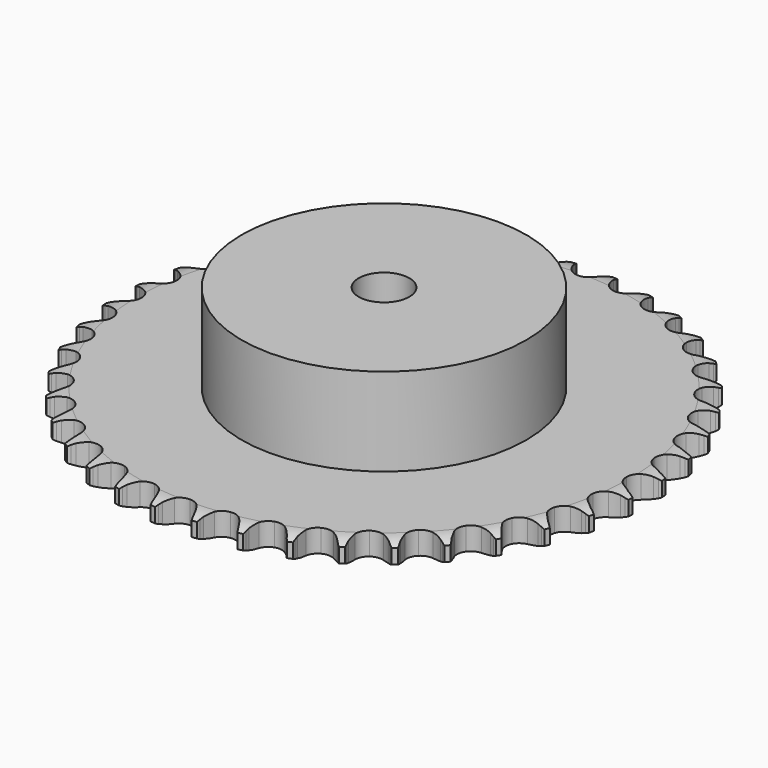
from build123d import *

# Parameters (mm, degrees)
PAD_DEPTH         = 7.2
SKETCH001_R       = 45
PAD001_DEPTH      = 35
SKETCH002_R       = 8
POCKET_DEPTH      = 0.001
POCKET_DEPTH_BACK = 35.001


with BuildPart() as part:
    # Sprocket → Pad (new body)
    with BuildSketch(Plane.XY):
        with BuildLine():
            ThreePointArc((-6.649012, 84.48371), (-5.927726, 83.470306), (-5.400458, 82.343705))
            Line((-5.400458, 82.343705), (-4.98558, 81.197617))
            ThreePointArc((-4.98558, 81.197617), (-4.32953, 79.727559), (-3.46814, 78.367604))
            ThreePointArc((-3.46814, 78.367604), (-1.941893, 77.081246), (0, 76.619517))
            ThreePointArc((0, 76.619517), (1.941893, 77.081246), (3.46814, 78.367604))
            ThreePointArc((3.46814, 78.367604), (4.32953, 79.727559), (4.98558, 81.197617))
            Line((4.98558, 81.197617), (5.400458, 82.343705))
            ThreePointArc((5.400458, 82.343705), (5.927726, 83.470306), (6.649012, 84.48371))
            ThreePointArc((6.649012, 84.48371), (7.202887, 83.369949), (7.547424, 82.174735))
            Line((7.547424, 82.174735), (7.777907, 80.977856))
            ThreePointArc((7.777907, 80.977856), (8.195912, 79.423268), (8.833953, 77.945305))
            ThreePointArc((8.833953, 77.945305), (10.140178, 76.436027), (11.985933, 75.676204))
            ThreePointArc((11.985933, 75.676204), (13.976149, 75.828469), (15.684836, 76.860232))
            Line((15.684836, 76.860232), (17.626305, 79.418023))
            ThreePointArc((17.626305, 79.418023), (17.906205, 79.959636), (18.215363, 80.4851))
            ThreePointArc((18.215363, 80.4851), (18.912379, 81.515347), (19.783316, 82.403441))
            ThreePointArc((19.783316, 82.403441), (20.15614, 81.216746), (20.309464, 79.98235))
            Line((20.309464, 79.98235), (20.349875, 78.764151))
            ThreePointArc((20.349875, 78.764151), (20.519543, 77.163313), (20.918524, 75.603734))
            ThreePointArc((20.918524, 75.603734), (21.972565, 73.9087), (23.676733, 72.869491))
            ThreePointArc((23.676733, 72.869491), (25.666265, 72.708543), (27.515318, 73.460306))
            Line((27.515318, 73.460306), (29.833012, 75.682894))
            ThreePointArc((29.833012, 75.682894), (30.194193, 76.174053), (30.581745, 76.644684))
            ThreePointArc((30.581745, 76.644684), (31.431346, 77.55321), (32.430489, 78.294125))
            ThreePointArc((32.430489, 78.294125), (32.613083, 77.063719), (32.571417, 75.820535))
            Line((32.571417, 75.820535), (32.420763, 74.611012))
            ThreePointArc((32.420763, 74.611012), (32.337915, 73.003341), (32.488012, 71.400549))
            ThreePointArc((32.488012, 71.400549), (33.263914, 69.561494), (34.784533, 68.26849))
            ThreePointArc((34.784533, 68.26849), (36.724393, 67.798292), (38.668283, 68.251544))
            Line((38.668283, 68.251544), (41.305131, 70.084201))
            ThreePointArc((41.305131, 70.084201), (41.7387, 70.512812), (42.195103, 70.917022))
            ThreePointArc((42.195103, 70.917022), (43.176369, 71.681456), (44.279115, 72.256949))
            ThreePointArc((44.279115, 72.256949), (44.266984, 71.013126), (44.031353, 69.791766))
            Line((44.031353, 69.791766), (43.693343, 68.620702))
            ThreePointArc((43.693343, 68.620702), (43.36002, 67.045784), (43.257538, 65.439245))
            ThreePointArc((43.257538, 65.439245), (43.736195, 63.501454), (45.035822, 61.986492))
            ThreePointArc((45.035822, 61.986492), (46.878245, 61.218622), (48.869106, 61.362202))
            Line((48.869106, 61.362202), (51.76018, 62.759802))
            ThreePointArc((51.76018, 62.759802), (52.255461, 63.115311), (52.769478, 63.443147))
            ThreePointArc((52.769478, 63.443147), (53.858246, 64.044666), (55.037443, 64.440566))
            ThreePointArc((55.037443, 64.440566), (54.830884, 63.213955), (54.407092, 62.044493))
            Line((54.407092, 62.044493), (53.890048, 60.940723))
            ThreePointArc((53.890048, 60.940723), (53.314458, 59.437338), (52.961919, 57.866609))
            ThreePointArc((52.961919, 57.866609), (53.131546, 55.877798), (54.17818, 54.17818))
            ThreePointArc((54.17818, 54.17818), (55.877798, 53.131546), (57.866609, 52.961919))
            Line((57.866609, 52.961919), (60.940723, 53.890048))
            ThreePointArc((60.940723, 53.890048), (61.48552, 54.163701), (62.044493, 54.407092))
            ThreePointArc((62.044493, 54.407092), (63.213955, 54.830884), (64.440566, 55.037443))
            ThreePointArc((64.440566, 55.037443), (64.044666, 53.858246), (63.443147, 52.769478))
            Line((63.443147, 52.769478), (62.759802, 51.76018))
            ThreePointArc((62.759802, 51.76018), (61.956116, 50.365347), (61.362202, 48.869106))
            ThreePointArc((61.362202, 48.869106), (61.218622, 46.878245), (61.986492, 45.035822))
            ThreePointArc((61.986492, 45.035822), (63.501454, 43.736195), (65.439245, 43.257538))
            Line((65.439245, 43.257538), (68.620702, 43.693343))
            ThreePointArc((68.620702, 43.693343), (69.2016, 43.878402), (69.791766, 44.031353))
            ThreePointArc((69.791766, 44.031353), (71.013126, 44.266984), (72.256949, 44.279115))
            ThreePointArc((72.256949, 44.279115), (71.681456, 43.176369), (70.917022, 42.195103))
            Line((70.917022, 42.195103), (70.084201, 41.305131))
            ThreePointArc((70.084201, 41.305131), (69.07221, 40.053194), (68.251544, 38.668283))
            ThreePointArc((68.251544, 38.668283), (67.798292, 36.724393), (68.26849, 34.784533))
            ThreePointArc((68.26849, 34.784533), (69.561494, 33.263914), (71.400549, 32.488012))
            Line((71.400549, 32.488012), (74.611012, 32.420763))
            ThreePointArc((74.611012, 32.420763), (75.213708, 32.512671), (75.820535, 32.571417))
            ThreePointArc((75.820535, 32.571417), (77.063719, 32.613083), (78.294125, 32.430489))
            ThreePointArc((78.294125, 32.430489), (77.55321, 31.431346), (76.644684, 30.581745))
            Line((76.644684, 30.581745), (75.682894, 29.833012))
            ThreePointArc((75.682894, 29.833012), (74.487516, 28.754798), (73.460306, 27.515318))
            ThreePointArc((73.460306, 27.515318), (72.708543, 25.666265), (72.869491, 23.676733))
            ThreePointArc((72.869491, 23.676733), (73.9087, 21.972565), (75.603734, 20.918524))
            Line((75.603734, 20.918524), (78.764151, 20.349875))
            ThreePointArc((78.764151, 20.349875), (79.373805, 20.346369), (79.98235, 20.309464))
            ThreePointArc((79.98235, 20.309464), (81.216746, 20.15614), (82.403441, 19.783316))
            ThreePointArc((82.403441, 19.783316), (81.515347, 18.912379), (80.4851, 18.215363))
            Line((80.4851, 18.215363), (79.418023, 17.626305))
            ThreePointArc((79.418023, 17.626305), (78.068693, 16.748364), (76.860232, 15.684836))
            ThreePointArc((76.860232, 15.684836), (75.828469, 13.976149), (75.676204, 11.985933))
            ThreePointArc((75.676204, 11.985933), (76.436027, 10.140178), (77.945305, 8.833953))
            Line((77.945305, 8.833953), (80.977856, 7.777907))
            ThreePointArc((80.977856, 7.777907), (81.579455, 7.679073), (82.174735, 7.547424))
            ThreePointArc((82.174735, 7.547424), (83.369949, 7.202887), (84.48371, 6.649012))
            ThreePointArc((84.48371, 6.649012), (83.470306, 5.927726), (82.343705, 5.400458))
            Line((82.343705, 5.400458), (81.197617, 4.98558))
            ThreePointArc((81.197617, 4.98558), (79.727559, 4.32953), (78.367604, 3.46814))
            ThreePointArc((78.367604, 3.46814), (77.081246, 1.941893), (76.619517, 0))
            ThreePointArc((76.619517, 0), (77.081246, -1.941893), (78.367604, -3.46814))
            Line((78.367604, -3.46814), (81.197617, -4.98558))
            ThreePointArc((81.197617, -4.98558), (81.776348, -5.177307), (82.343705, -5.400458))
            ThreePointArc((82.343705, -5.400458), (83.470306, -5.927726), (84.48371, -6.649012))
            ThreePointArc((84.48371, -6.649012), (83.369949, -7.202887), (82.174735, -7.547424))
            Line((82.174735, -7.547424), (80.977856, -7.777907))
            ThreePointArc((80.977856, -7.777907), (79.423268, -8.195912), (77.945305, -8.833953))
            ThreePointArc((77.945305, -8.833953), (76.436027, -10.140178), (75.676204, -11.985933))
            ThreePointArc((75.676204, -11.985933), (75.828469, -13.976149), (76.860232, -15.684836))
            Line((76.860232, -15.684836), (79.418023, -17.626305))
            ThreePointArc((79.418023, -17.626305), (79.959636, -17.906205), (80.4851, -18.215363))
            ThreePointArc((80.4851, -18.215363), (81.515347, -18.912379), (82.403441, -19.783316))
            ThreePointArc((82.403441, -19.783316), (81.216746, -20.15614), (79.98235, -20.309464))
            Line((79.98235, -20.309464), (78.764151, -20.349875))
            ThreePointArc((78.764151, -20.349875), (77.163313, -20.519543), (75.603734, -20.918524))
            ThreePointArc((75.603734, -20.918524), (73.9087, -21.972565), (72.869491, -23.676733))
            ThreePointArc((72.869491, -23.676733), (72.708543, -25.666265), (73.460306, -27.515318))
            Line((73.460306, -27.515318), (75.682894, -29.833012))
            ThreePointArc((75.682894, -29.833012), (76.174053, -30.194193), (76.644684, -30.581745))
            ThreePointArc((76.644684, -30.581745), (77.55321, -31.431346), (78.294125, -32.430489))
            ThreePointArc((78.294125, -32.430489), (77.063719, -32.613083), (75.820535, -32.571417))
            Line((75.820535, -32.571417), (74.611012, -32.420763))
            ThreePointArc((74.611012, -32.420763), (73.003341, -32.337915), (71.400549, -32.488012))
            ThreePointArc((71.400549, -32.488012), (69.561494, -33.263914), (68.26849, -34.784533))
            ThreePointArc((68.26849, -34.784533), (67.798292, -36.724393), (68.251544, -38.668283))
            Line((68.251544, -38.668283), (70.084201, -41.305131))
            ThreePointArc((70.084201, -41.305131), (70.512812, -41.7387), (70.917022, -42.195103))
            ThreePointArc((70.917022, -42.195103), (71.681456, -43.176369), (72.256949, -44.279115))
            ThreePointArc((72.256949, -44.279115), (71.013126, -44.266984), (69.791766, -44.031353))
            Line((69.791766, -44.031353), (68.620702, -43.693343))
            ThreePointArc((68.620702, -43.693343), (67.045784, -43.36002), (65.439245, -43.257538))
            ThreePointArc((65.439245, -43.257538), (63.501454, -43.736195), (61.986492, -45.035822))
            ThreePointArc((61.986492, -45.035822), (61.218622, -46.878245), (61.362202, -48.869106))
            Line((61.362202, -48.869106), (62.759802, -51.76018))
            ThreePointArc((62.759802, -51.76018), (63.115311, -52.255461), (63.443147, -52.769478))
            ThreePointArc((63.443147, -52.769478), (64.044666, -53.858246), (64.440566, -55.037443))
            ThreePointArc((64.440566, -55.037443), (63.213955, -54.830884), (62.044493, -54.407092))
            Line((62.044493, -54.407092), (60.940723, -53.890048))
            ThreePointArc((60.940723, -53.890048), (59.437338, -53.314458), (57.866609, -52.961919))
            ThreePointArc((57.866609, -52.961919), (55.877798, -53.131546), (54.17818, -54.17818))
            ThreePointArc((54.17818, -54.17818), (53.131546, -55.877798), (52.961919, -57.866609))
            Line((52.961919, -57.866609), (53.890048, -60.940723))
            ThreePointArc((53.890048, -60.940723), (54.163701, -61.48552), (54.407092, -62.044493))
            ThreePointArc((54.407092, -62.044493), (54.830884, -63.213955), (55.037443, -64.440566))
            ThreePointArc((55.037443, -64.440566), (53.858246, -64.044666), (52.769478, -63.443147))
            Line((52.769478, -63.443147), (51.76018, -62.759802))
            ThreePointArc((51.76018, -62.759802), (50.365347, -61.956116), (48.869106, -61.362202))
            ThreePointArc((48.869106, -61.362202), (46.878245, -61.218622), (45.035822, -61.986492))
            ThreePointArc((45.035822, -61.986492), (43.736195, -63.501454), (43.257538, -65.439245))
            Line((43.257538, -65.439245), (43.693343, -68.620702))
            ThreePointArc((43.693343, -68.620702), (43.878402, -69.2016), (44.031353, -69.791766))
            ThreePointArc((44.031353, -69.791766), (44.266984, -71.013126), (44.279115, -72.256949))
            ThreePointArc((44.279115, -72.256949), (43.176369, -71.681456), (42.195103, -70.917022))
            Line((42.195103, -70.917022), (41.305131, -70.084201))
            ThreePointArc((41.305131, -70.084201), (40.053194, -69.07221), (38.668283, -68.251544))
            ThreePointArc((38.668283, -68.251544), (36.724393, -67.798292), (34.784533, -68.26849))
            ThreePointArc((34.784533, -68.26849), (33.263914, -69.561494), (32.488012, -71.400549))
            Line((32.488012, -71.400549), (32.420763, -74.611012))
            ThreePointArc((32.420763, -74.611012), (32.512671, -75.213708), (32.571417, -75.820535))
            ThreePointArc((32.571417, -75.820535), (32.613083, -77.063719), (32.430489, -78.294125))
            ThreePointArc((32.430489, -78.294125), (31.431346, -77.55321), (30.581745, -76.644684))
            Line((30.581745, -76.644684), (29.833012, -75.682894))
            ThreePointArc((29.833012, -75.682894), (28.754798, -74.487516), (27.515318, -73.460306))
            ThreePointArc((27.515318, -73.460306), (25.666265, -72.708543), (23.676733, -72.869491))
            ThreePointArc((23.676733, -72.869491), (21.972565, -73.9087), (20.918524, -75.603734))
            Line((20.918524, -75.603734), (20.349875, -78.764151))
            ThreePointArc((20.349875, -78.764151), (20.346369, -79.373805), (20.309464, -79.98235))
            ThreePointArc((20.309464, -79.98235), (20.15614, -81.216746), (19.783316, -82.403441))
            ThreePointArc((19.783316, -82.403441), (18.912379, -81.515347), (18.215363, -80.4851))
            Line((18.215363, -80.4851), (17.626305, -79.418023))
            ThreePointArc((17.626305, -79.418023), (16.748364, -78.068693), (15.684836, -76.860232))
            ThreePointArc((15.684836, -76.860232), (13.976149, -75.828469), (11.985933, -75.676204))
            ThreePointArc((11.985933, -75.676204), (10.140178, -76.436027), (8.833953, -77.945305))
            Line((8.833953, -77.945305), (7.777907, -80.977856))
            ThreePointArc((7.777907, -80.977856), (7.679073, -81.579455), (7.547424, -82.174735))
            ThreePointArc((7.547424, -82.174735), (7.202887, -83.369949), (6.649012, -84.48371))
            ThreePointArc((6.649012, -84.48371), (5.927726, -83.470306), (5.400458, -82.343705))
            Line((5.400458, -82.343705), (4.98558, -81.197617))
            ThreePointArc((4.98558, -81.197617), (4.32953, -79.727559), (3.46814, -78.367604))
            ThreePointArc((3.46814, -78.367604), (1.941893, -77.081246), (0, -76.619517))
            ThreePointArc((0, -76.619517), (-1.941893, -77.081246), (-3.46814, -78.367604))
            Line((-3.46814, -78.367604), (-4.98558, -81.197617))
            ThreePointArc((-4.98558, -81.197617), (-5.177307, -81.776348), (-5.400458, -82.343705))
            ThreePointArc((-5.400458, -82.343705), (-5.927726, -83.470306), (-6.649012, -84.48371))
            ThreePointArc((-6.649012, -84.48371), (-7.202887, -83.369949), (-7.547424, -82.174735))
            Line((-7.547424, -82.174735), (-7.777907, -80.977856))
            ThreePointArc((-7.777907, -80.977856), (-8.195912, -79.423268), (-8.833953, -77.945305))
            ThreePointArc((-8.833953, -77.945305), (-10.140178, -76.436027), (-11.985933, -75.676204))
            ThreePointArc((-11.985933, -75.676204), (-13.976149, -75.828469), (-15.684836, -76.860232))
            Line((-15.684836, -76.860232), (-17.626305, -79.418023))
            ThreePointArc((-17.626305, -79.418023), (-17.906205, -79.959636), (-18.215363, -80.4851))
            ThreePointArc((-18.215363, -80.4851), (-18.912379, -81.515347), (-19.783316, -82.403441))
            ThreePointArc((-19.783316, -82.403441), (-20.15614, -81.216746), (-20.309464, -79.98235))
            Line((-20.309464, -79.98235), (-20.349875, -78.764151))
            ThreePointArc((-20.349875, -78.764151), (-20.519543, -77.163313), (-20.918524, -75.603734))
            ThreePointArc((-20.918524, -75.603734), (-21.972565, -73.9087), (-23.676733, -72.869491))
            ThreePointArc((-23.676733, -72.869491), (-25.666265, -72.708543), (-27.515318, -73.460306))
            Line((-27.515318, -73.460306), (-29.833012, -75.682894))
            ThreePointArc((-29.833012, -75.682894), (-30.194193, -76.174053), (-30.581745, -76.644684))
            ThreePointArc((-30.581745, -76.644684), (-31.431346, -77.55321), (-32.430489, -78.294125))
            ThreePointArc((-32.430489, -78.294125), (-32.613083, -77.063719), (-32.571417, -75.820535))
            Line((-32.571417, -75.820535), (-32.420763, -74.611012))
            ThreePointArc((-32.420763, -74.611012), (-32.337915, -73.003341), (-32.488012, -71.400549))
            ThreePointArc((-32.488012, -71.400549), (-33.263914, -69.561494), (-34.784533, -68.26849))
            ThreePointArc((-34.784533, -68.26849), (-36.724393, -67.798292), (-38.668283, -68.251544))
            Line((-38.668283, -68.251544), (-41.305131, -70.084201))
            ThreePointArc((-41.305131, -70.084201), (-41.7387, -70.512812), (-42.195103, -70.917022))
            ThreePointArc((-42.195103, -70.917022), (-43.176369, -71.681456), (-44.279115, -72.256949))
            ThreePointArc((-44.279115, -72.256949), (-44.266984, -71.013126), (-44.031353, -69.791766))
            Line((-44.031353, -69.791766), (-43.693343, -68.620702))
            ThreePointArc((-43.693343, -68.620702), (-43.36002, -67.045784), (-43.257538, -65.439245))
            ThreePointArc((-43.257538, -65.439245), (-43.736195, -63.501454), (-45.035822, -61.986492))
            ThreePointArc((-45.035822, -61.986492), (-46.878245, -61.218622), (-48.869106, -61.362202))
            Line((-48.869106, -61.362202), (-51.76018, -62.759802))
            ThreePointArc((-51.76018, -62.759802), (-52.255461, -63.115311), (-52.769478, -63.443147))
            ThreePointArc((-52.769478, -63.443147), (-53.858246, -64.044666), (-55.037443, -64.440566))
            ThreePointArc((-55.037443, -64.440566), (-54.830884, -63.213955), (-54.407092, -62.044493))
            Line((-54.407092, -62.044493), (-53.890048, -60.940723))
            ThreePointArc((-53.890048, -60.940723), (-53.314458, -59.437338), (-52.961919, -57.866609))
            ThreePointArc((-52.961919, -57.866609), (-53.131546, -55.877798), (-54.17818, -54.17818))
            ThreePointArc((-54.17818, -54.17818), (-55.877798, -53.131546), (-57.866609, -52.961919))
            Line((-57.866609, -52.961919), (-60.940723, -53.890048))
            ThreePointArc((-60.940723, -53.890048), (-61.48552, -54.163701), (-62.044493, -54.407092))
            ThreePointArc((-62.044493, -54.407092), (-63.213955, -54.830884), (-64.440566, -55.037443))
            ThreePointArc((-64.440566, -55.037443), (-64.044666, -53.858246), (-63.443147, -52.769478))
            Line((-63.443147, -52.769478), (-62.759802, -51.76018))
            ThreePointArc((-62.759802, -51.76018), (-61.956116, -50.365347), (-61.362202, -48.869106))
            ThreePointArc((-61.362202, -48.869106), (-61.218622, -46.878245), (-61.986492, -45.035822))
            ThreePointArc((-61.986492, -45.035822), (-63.501454, -43.736195), (-65.439245, -43.257538))
            Line((-65.439245, -43.257538), (-68.620702, -43.693343))
            ThreePointArc((-68.620702, -43.693343), (-69.2016, -43.878402), (-69.791766, -44.031353))
            ThreePointArc((-69.791766, -44.031353), (-71.013126, -44.266984), (-72.256949, -44.279115))
            ThreePointArc((-72.256949, -44.279115), (-71.681456, -43.176369), (-70.917022, -42.195103))
            Line((-70.917022, -42.195103), (-70.084201, -41.305131))
            ThreePointArc((-70.084201, -41.305131), (-69.07221, -40.053194), (-68.251544, -38.668283))
            ThreePointArc((-68.251544, -38.668283), (-67.798292, -36.724393), (-68.26849, -34.784533))
            ThreePointArc((-68.26849, -34.784533), (-69.561494, -33.263914), (-71.400549, -32.488012))
            Line((-71.400549, -32.488012), (-74.611012, -32.420763))
            ThreePointArc((-74.611012, -32.420763), (-75.213708, -32.512671), (-75.820535, -32.571417))
            ThreePointArc((-75.820535, -32.571417), (-77.063719, -32.613083), (-78.294125, -32.430489))
            ThreePointArc((-78.294125, -32.430489), (-77.55321, -31.431346), (-76.644684, -30.581745))
            Line((-76.644684, -30.581745), (-75.682894, -29.833012))
            ThreePointArc((-75.682894, -29.833012), (-74.487516, -28.754798), (-73.460306, -27.515318))
            ThreePointArc((-73.460306, -27.515318), (-72.708543, -25.666265), (-72.869491, -23.676733))
            ThreePointArc((-72.869491, -23.676733), (-73.9087, -21.972565), (-75.603734, -20.918524))
            Line((-75.603734, -20.918524), (-78.764151, -20.349875))
            ThreePointArc((-78.764151, -20.349875), (-79.373805, -20.346369), (-79.98235, -20.309464))
            ThreePointArc((-79.98235, -20.309464), (-81.216746, -20.15614), (-82.403441, -19.783316))
            ThreePointArc((-82.403441, -19.783316), (-81.515347, -18.912379), (-80.4851, -18.215363))
            Line((-80.4851, -18.215363), (-79.418023, -17.626305))
            ThreePointArc((-79.418023, -17.626305), (-78.068693, -16.748364), (-76.860232, -15.684836))
            ThreePointArc((-76.860232, -15.684836), (-75.828469, -13.976149), (-75.676204, -11.985933))
            ThreePointArc((-75.676204, -11.985933), (-76.436027, -10.140178), (-77.945305, -8.833953))
            Line((-77.945305, -8.833953), (-80.977856, -7.777907))
            ThreePointArc((-80.977856, -7.777907), (-81.579455, -7.679073), (-82.174735, -7.547424))
            ThreePointArc((-82.174735, -7.547424), (-83.369949, -7.202887), (-84.48371, -6.649012))
            ThreePointArc((-84.48371, -6.649012), (-83.470306, -5.927726), (-82.343705, -5.400458))
            Line((-82.343705, -5.400458), (-81.197617, -4.98558))
            ThreePointArc((-81.197617, -4.98558), (-79.727559, -4.32953), (-78.367604, -3.46814))
            ThreePointArc((-78.367604, -3.46814), (-77.081246, -1.941893), (-76.619517, 0))
            ThreePointArc((-76.619517, 0), (-77.081246, 1.941893), (-78.367604, 3.46814))
            Line((-78.367604, 3.46814), (-81.197617, 4.98558))
            ThreePointArc((-81.197617, 4.98558), (-81.776348, 5.177307), (-82.343705, 5.400458))
            ThreePointArc((-82.343705, 5.400458), (-83.470306, 5.927726), (-84.48371, 6.649012))
            ThreePointArc((-84.48371, 6.649012), (-83.369949, 7.202887), (-82.174735, 7.547424))
            Line((-82.174735, 7.547424), (-80.977856, 7.777907))
            ThreePointArc((-80.977856, 7.777907), (-79.423268, 8.195912), (-77.945305, 8.833953))
            ThreePointArc((-77.945305, 8.833953), (-76.436027, 10.140178), (-75.676204, 11.985933))
            ThreePointArc((-75.676204, 11.985933), (-75.828469, 13.976149), (-76.860232, 15.684836))
            Line((-76.860232, 15.684836), (-79.418023, 17.626305))
            ThreePointArc((-79.418023, 17.626305), (-79.959636, 17.906205), (-80.4851, 18.215363))
            ThreePointArc((-80.4851, 18.215363), (-81.515347, 18.912379), (-82.403441, 19.783316))
            ThreePointArc((-82.403441, 19.783316), (-81.216746, 20.15614), (-79.98235, 20.309464))
            Line((-79.98235, 20.309464), (-78.764151, 20.349875))
            ThreePointArc((-78.764151, 20.349875), (-77.163313, 20.519543), (-75.603734, 20.918524))
            ThreePointArc((-75.603734, 20.918524), (-73.9087, 21.972565), (-72.869491, 23.676733))
            ThreePointArc((-72.869491, 23.676733), (-72.708543, 25.666265), (-73.460306, 27.515318))
            Line((-73.460306, 27.515318), (-75.682894, 29.833012))
            ThreePointArc((-75.682894, 29.833012), (-76.174053, 30.194193), (-76.644684, 30.581745))
            ThreePointArc((-76.644684, 30.581745), (-77.55321, 31.431346), (-78.294125, 32.430489))
            ThreePointArc((-78.294125, 32.430489), (-77.063719, 32.613083), (-75.820535, 32.571417))
            Line((-75.820535, 32.571417), (-74.611012, 32.420763))
            ThreePointArc((-74.611012, 32.420763), (-73.003341, 32.337915), (-71.400549, 32.488012))
            ThreePointArc((-71.400549, 32.488012), (-69.561494, 33.263914), (-68.26849, 34.784533))
            ThreePointArc((-68.26849, 34.784533), (-67.798292, 36.724393), (-68.251544, 38.668283))
            Line((-68.251544, 38.668283), (-70.084201, 41.305131))
            ThreePointArc((-70.084201, 41.305131), (-70.512812, 41.7387), (-70.917022, 42.195103))
            ThreePointArc((-70.917022, 42.195103), (-71.681456, 43.176369), (-72.256949, 44.279115))
            ThreePointArc((-72.256949, 44.279115), (-71.013126, 44.266984), (-69.791766, 44.031353))
            Line((-69.791766, 44.031353), (-68.620702, 43.693343))
            ThreePointArc((-68.620702, 43.693343), (-67.045784, 43.36002), (-65.439245, 43.257538))
            ThreePointArc((-65.439245, 43.257538), (-63.501454, 43.736195), (-61.986492, 45.035822))
            ThreePointArc((-61.986492, 45.035822), (-61.218622, 46.878245), (-61.362202, 48.869106))
            Line((-61.362202, 48.869106), (-62.759802, 51.76018))
            ThreePointArc((-62.759802, 51.76018), (-63.115311, 52.255461), (-63.443147, 52.769478))
            ThreePointArc((-63.443147, 52.769478), (-64.044666, 53.858246), (-64.440566, 55.037443))
            ThreePointArc((-64.440566, 55.037443), (-63.213955, 54.830884), (-62.044493, 54.407092))
            Line((-62.044493, 54.407092), (-60.940723, 53.890048))
            ThreePointArc((-60.940723, 53.890048), (-59.437338, 53.314458), (-57.866609, 52.961919))
            ThreePointArc((-57.866609, 52.961919), (-55.877798, 53.131546), (-54.17818, 54.17818))
            ThreePointArc((-54.17818, 54.17818), (-53.131546, 55.877798), (-52.961919, 57.866609))
            Line((-52.961919, 57.866609), (-53.890048, 60.940723))
            ThreePointArc((-53.890048, 60.940723), (-54.163701, 61.48552), (-54.407092, 62.044493))
            ThreePointArc((-54.407092, 62.044493), (-54.830884, 63.213955), (-55.037443, 64.440566))
            ThreePointArc((-55.037443, 64.440566), (-53.858246, 64.044666), (-52.769478, 63.443147))
            Line((-52.769478, 63.443147), (-51.76018, 62.759802))
            ThreePointArc((-51.76018, 62.759802), (-50.365347, 61.956116), (-48.869106, 61.362202))
            ThreePointArc((-48.869106, 61.362202), (-46.878245, 61.218622), (-45.035822, 61.986492))
            ThreePointArc((-45.035822, 61.986492), (-43.736195, 63.501454), (-43.257538, 65.439245))
            Line((-43.257538, 65.439245), (-43.693343, 68.620702))
            ThreePointArc((-43.693343, 68.620702), (-43.878402, 69.2016), (-44.031353, 69.791766))
            ThreePointArc((-44.031353, 69.791766), (-44.266984, 71.013126), (-44.279115, 72.256949))
            ThreePointArc((-44.279115, 72.256949), (-43.176369, 71.681456), (-42.195103, 70.917022))
            Line((-42.195103, 70.917022), (-41.305131, 70.084201))
            ThreePointArc((-41.305131, 70.084201), (-40.053194, 69.07221), (-38.668283, 68.251544))
            ThreePointArc((-38.668283, 68.251544), (-36.724393, 67.798292), (-34.784533, 68.26849))
            ThreePointArc((-34.784533, 68.26849), (-33.263914, 69.561494), (-32.488012, 71.400549))
            Line((-32.488012, 71.400549), (-32.420763, 74.611012))
            ThreePointArc((-32.420763, 74.611012), (-32.512671, 75.213708), (-32.571417, 75.820535))
            ThreePointArc((-32.571417, 75.820535), (-32.613083, 77.063719), (-32.430489, 78.294125))
            ThreePointArc((-32.430489, 78.294125), (-31.431346, 77.55321), (-30.581745, 76.644684))
            Line((-30.581745, 76.644684), (-29.833012, 75.682894))
            ThreePointArc((-29.833012, 75.682894), (-28.754798, 74.487516), (-27.515318, 73.460306))
            ThreePointArc((-27.515318, 73.460306), (-25.666265, 72.708543), (-23.676733, 72.869491))
            ThreePointArc((-23.676733, 72.869491), (-21.972565, 73.9087), (-20.918524, 75.603734))
            Line((-20.918524, 75.603734), (-20.349875, 78.764151))
            ThreePointArc((-20.349875, 78.764151), (-20.346369, 79.373805), (-20.309464, 79.98235))
            ThreePointArc((-20.309464, 79.98235), (-20.15614, 81.216746), (-19.783316, 82.403441))
            ThreePointArc((-19.783316, 82.403441), (-18.912379, 81.515347), (-18.215363, 80.4851))
            Line((-18.215363, 80.4851), (-17.626305, 79.418023))
            ThreePointArc((-17.626305, 79.418023), (-16.748364, 78.068693), (-15.684836, 76.860232))
            ThreePointArc((-15.684836, 76.860232), (-13.976149, 75.828469), (-11.985933, 75.676204))
            ThreePointArc((-11.985933, 75.676204), (-10.140178, 76.436027), (-8.833953, 77.945305))
            Line((-8.833953, 77.945305), (-7.777907, 80.977856))
            ThreePointArc((-7.777907, 80.977856), (-7.679073, 81.579455), (-7.547424, 82.174735))
            ThreePointArc((-7.547424, 82.174735), (-7.202887, 83.369949), (-6.649012, 84.48371))
        make_face()
    extrude(amount=PAD_DEPTH)

    # Sketch → Groove (revolve, cut)
    with BuildSketch(Plane.XZ):
        with BuildLine():
            Line((77.733431, 0), (83.4, 0))
            Line((89.066569, 0), (83.4, 0))
            Line((89.066569, 7.2), (89.066569, 0))
            Line((83.4, 7.2), (89.066569, 7.2))
            Line((77.733431, 7.2), (83.4, 7.2))
            ThreePointArc((83.4, 5.9), (80.64032, 6.870833), (77.733431, 7.2))
            Line((83.4, 1.3), (83.4, 5.9))
            ThreePointArc((77.733431, 0), (80.64032, 0.329167), (83.4, 1.3))
        make_face()
    revolve(axis=Axis((0, 0, 0), (0, 0, 1)), mode=Mode.SUBTRACT)

    # Sketch001 → Pad001 (join)
    with BuildSketch(Plane.XY):
        Circle(SKETCH001_R)
    extrude(amount=PAD001_DEPTH)

    # Sketch002 → Pocket (cut, two sides)
    with BuildSketch(Plane.XY) as pocket_sk:
        Circle(SKETCH002_R)
    extrude(amount=-POCKET_DEPTH, mode=Mode.SUBTRACT)
    extrude(pocket_sk.sketch, amount=POCKET_DEPTH_BACK, mode=Mode.SUBTRACT)


solid = part.part
